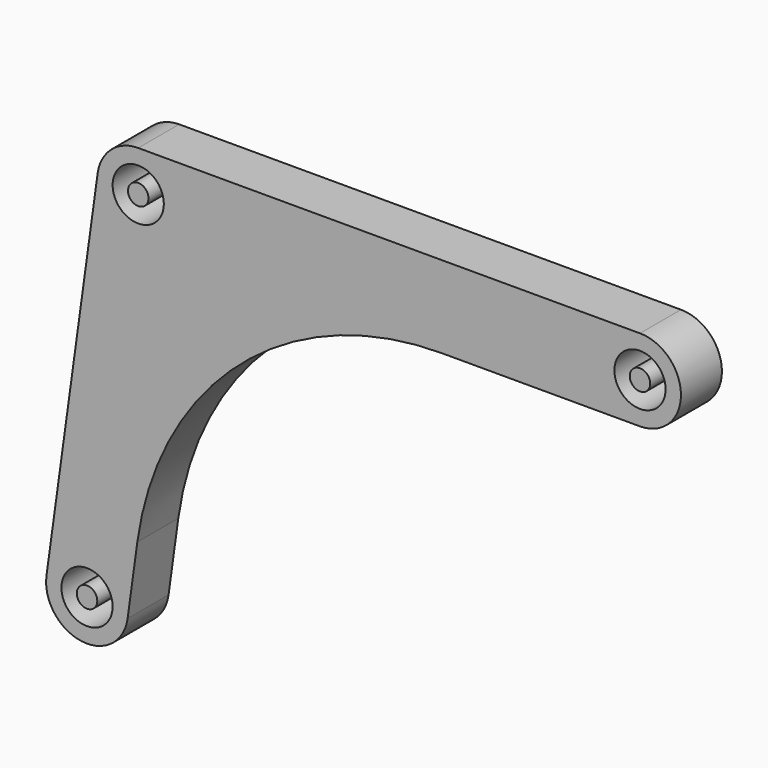
from build123d import *

# Parameters (mm, degrees)
F0_R     = 2.5
F0_R_2   = 1
F1_DEPTH = 5


with BuildPart() as f1:
    # F0 (on Front) → F1 (new body)
    with BuildSketch(Plane.XZ):
        with BuildLine():
            Line((49, 4), (0, 4))
            ThreePointArc((0, 4), (-2.628042, 3.015526), (-3.962464, 0.546698))
            Line((-3.962464, 0.546698), (-8.962464, -35.693302))
            ThreePointArc((-8.962464, -35.693302), (-5.546698, -40.202464), (-1.037536, -36.786698))
            Line((-1.037536, -36.786698), (-0.087352, -29.899768))
            ThreePointArc((-0.087352, -29.899768), (9.920813, -11.383557), (29.631128, -4))
            Line((29.631128, -4), (49, -4))
            ThreePointArc((49, -4), (53, 0), (49, 4))
        make_face()
        with Locations((-5, -36.24)):
            Circle(F0_R, mode=Mode.SUBTRACT)
        Circle(F0_R, mode=Mode.SUBTRACT)
        with Locations((49, 0)):
            Circle(F0_R, mode=Mode.SUBTRACT)
        with Locations((-5, -36.24)):
            Circle(F0_R_2)
        with Locations((49, 0)):
            Circle(F0_R_2)
        Circle(F0_R_2)
    extrude(amount=F1_DEPTH)


solid = f1.part
